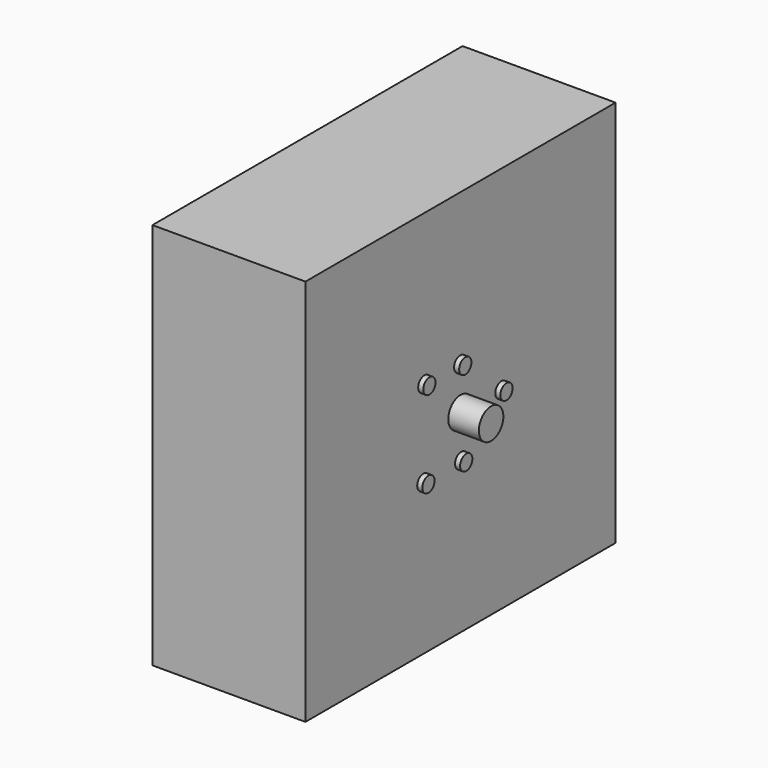
from build123d import *

# Parameters (mm, degrees)
F0_W     = 760
F0_H     = 760
F1_DEPTH = 300
F2_R     = 30
F3_DEPTH = 60
F2_R_2   = 15
F4_DEPTH = 10


with BuildPart() as f1:
    # F0 (on Right) → F1 (new body)
    with BuildSketch(Plane.YZ):
        with Locations((380, 380)):
            Rectangle(F0_W, F0_H)
    extrude(amount=F1_DEPTH)


with BuildPart() as f3:
    # F2 (on face) → F3 (new body)
    with BuildSketch(Plane.YZ.offset(300)):
        with Locations((380, 380)):
            Circle(F2_R)
    extrude(amount=F3_DEPTH)


with BuildPart() as f4:
    # F2 (on face) → F4 (new body)
    with BuildSketch(Plane.YZ.offset(300)):
        with Locations((288.921505, 296.121836)):
            Circle(F2_R_2)
        with Locations((291.297525, 464.818984)):
            Circle(F2_R_2)
        with Locations((381.586164, 296.121836)):
            Circle(F2_R_2)
        with Locations((379.210144, 463.631004)):
            Circle(F2_R_2)
        with Locations((480.190814, 378.094405)):
            Circle(F2_R_2)
    extrude(amount=F4_DEPTH)


solid = Compound([f1.part, f3.part, f4.part])
